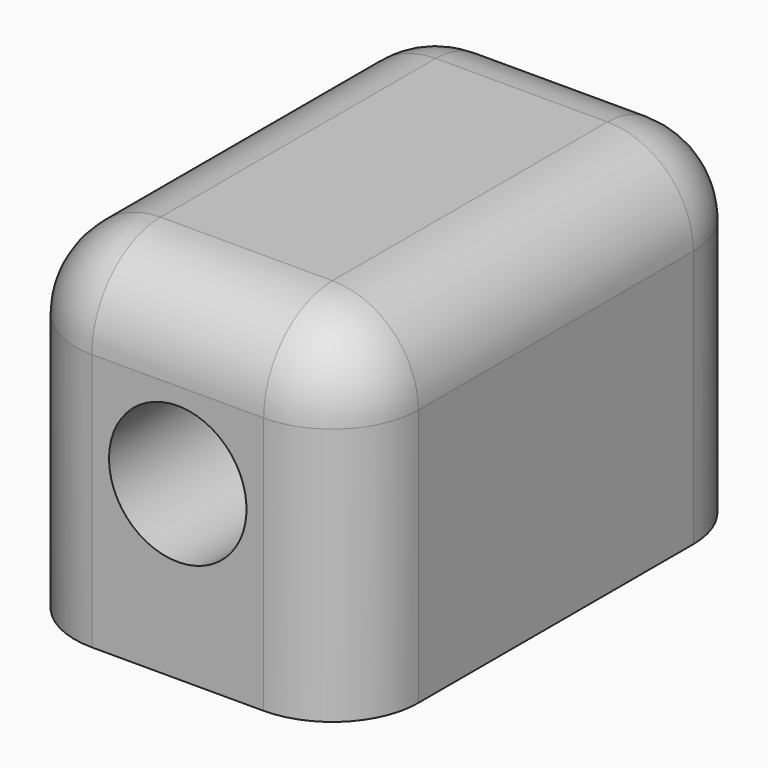
from build123d import *

# Parameters (mm, degrees)
F0_W     = 30
F0_H     = 20
F1_DEPTH = 10
F3_D     = 8
F3_DEPTH = 50
F4_R     = 5


with BuildPart() as f1:
    # F0 (on Right) → F1 (new body, symmetric)
    with BuildSketch(Plane.YZ):
        with Locations((-15, 10)):
            Rectangle(F0_W, F0_H)
    extrude(amount=F1_DEPTH, both=True)

    # F3
    with Locations(Plane.XZ.offset(30)):
        with Locations((0, 10)):
            Hole(F3_D / 2, depth=F3_DEPTH)

    # F4
    f4_edges = [f1.edges().sort_by_distance(p)[0] for p in [
        (0, 0, 20),
        (0, -30, 20),
        (-10, -15, 20),
        (10, -15, 20),
        (10, -30, 10),
        (-10, -30, 10),
        (10, 0, 10),
        (-10, 0, 10),
    ]]
    fillet(f4_edges, radius=F4_R)


solid = f1.part
